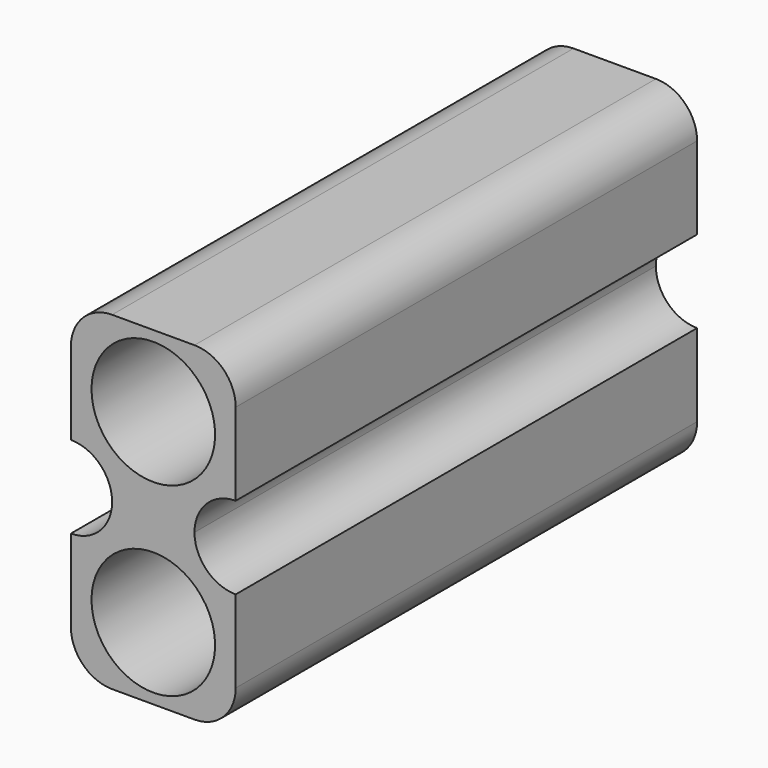
from build123d import *

# Parameters (mm, degrees)
F1_DEPTH = 14
F3_D     = 3


with BuildPart() as f1:
    # F0 (on Front) → F1 (new body)
    with BuildSketch(Plane.XZ):
        with BuildLine():
            ThreePointArc((0, 1), (0.2928932188, 0.2928932188), (1, 0))
            Line((1, 0), (3, 0))
            ThreePointArc((3, 0), (3.7071067812, 0.2928932188), (4, 1))
            Line((4, 1), (4, 3))
            ThreePointArc((4, 3), (3.2928932188, 3.2928932188), (3, 4))
            ThreePointArc((3, 4), (3.2928932188, 4.7071067812), (4, 5))
            Line((4, 5), (4, 7))
            ThreePointArc((4, 7), (3.7071067812, 7.7071067812), (3, 8))
            Line((3, 8), (1, 8))
            ThreePointArc((1, 8), (0.2928932188, 7.7071067812), (0, 7))
            Line((0, 7), (0, 5))
            ThreePointArc((0, 5), (0.7071067812, 4.7071067812), (1, 4))
            ThreePointArc((1, 4), (0.7071067812, 3.2928932188), (0, 3))
            Line((0, 3), (0, 1))
        make_face()
    extrude(amount=F1_DEPTH)

    # F3 (through all)
    with Locations(Plane(origin=(0, 0, 0), x_dir=(1, 0, 0), z_dir=(0, 1, 0))):
        with Locations((2, -6.25), (2, -1.75)):
            Hole(F3_D / 2)


solid = f1.part
